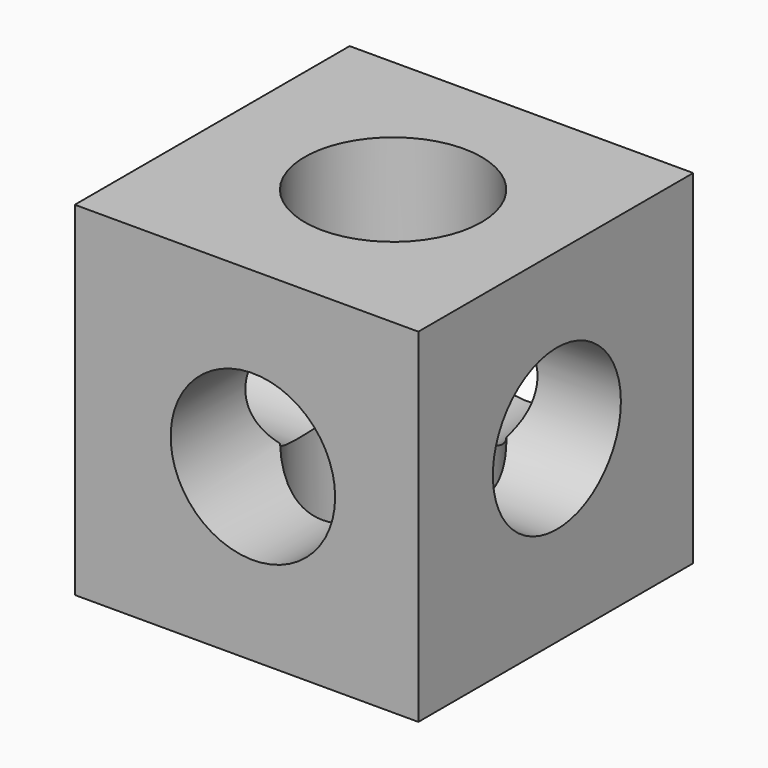
from build123d import *

# Parameters (mm, degrees)
F0_W     = 100
F0_H     = 100
F1_DEPTH = 100
F2_R     = 23.292547
F3_DEPTH = 100
F4_R     = 25.73286
F5_DEPTH = 100
F6_R     = 23.936045
F7_DEPTH = 100


with BuildPart() as f1:
    # F0 (on Front) → F1 (new body)
    with BuildSketch(Plane.XZ):
        with Locations((-1.841279, 8.180717)):
            Rectangle(F0_W, F0_H)
    extrude(amount=F1_DEPTH)

    # F2 (on face) → F3 (cut)
    with BuildSketch(Plane.YZ.offset(48.158721)):
        with Locations((-49.608748, 10.327764)):
            Circle(F2_R)
    extrude(amount=-F3_DEPTH, mode=Mode.SUBTRACT)

    # F4 (on face) → F5 (cut)
    with BuildSketch(Plane(origin=(0, 0, -41.819283), x_dir=(1, 0, 0), z_dir=(0, 0, -1))):
        with Locations((0, 48.98404)):
            Circle(F4_R)
    extrude(amount=-F5_DEPTH, mode=Mode.SUBTRACT)

    # F6 (on face) → F7 (cut)
    with BuildSketch(Plane.XZ.offset(100)):
        with Locations((0, 7.915178)):
            Circle(F6_R)
    extrude(amount=-F7_DEPTH, mode=Mode.SUBTRACT)


solid = f1.part
